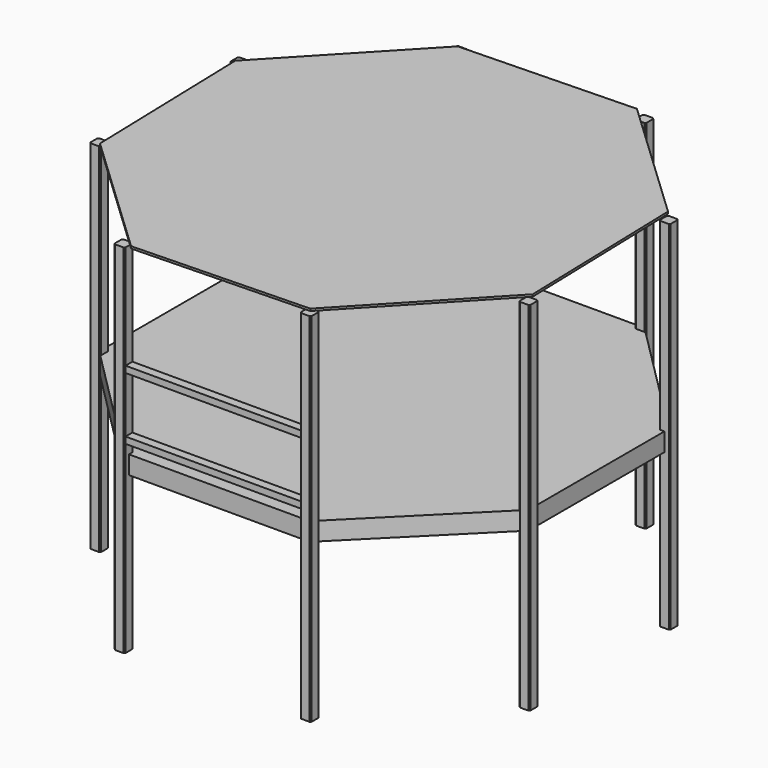
from build123d import *

# Parameters (mm, degrees)
F1_DEPTH      = 2387.6
F1_DEPTH_BACK = 1828.8
F2_DEPTH      = 215.9
F3_W          = 101.6
F3_H          = 76.2
F4_DEPTH      = 2070.1
F6_DEPTH      = 25.4


with BuildPart() as f1:
    # F0 (on Top) → F1 (new body, two sides)
    with BuildSketch(Plane.XY) as f1_sk:
        Polygon((-225.512964, 941.347338), (-238.211047, 928.649255), (-238.211047, 827.049255), (-225.512964, 814.351173), (-174.712964, 814.351173), (-123.912964, 814.351173), (-111.214882, 827.049255), (-111.214882, 928.649255), (-117.563923, 934.998296), (-123.912964, 941.347338), align=None)
        Polygon((-123.912964, -1128.752662), (-174.712964, -1128.752662), (-225.512964, -1128.752662), (-238.211047, -1141.450745), (-238.211047, -1243.050745), (-225.512964, -1255.748827), (-123.912964, -1255.748827), (-117.563923, -1249.399786), (-111.214882, -1243.050745), (-111.214882, -1141.450745), align=None)
        Polygon((1209.587036, -2563.852662), (1203.237994, -2570.201704), (1196.888953, -2576.550745), (1196.888953, -2678.150745), (1209.587036, -2690.848827), (1311.187036, -2690.848827), (1323.885118, -2678.150745), (1323.885118, -2627.350745), (1323.885118, -2576.550745), (1311.187036, -2563.852662), align=None)
        Polygon((3393.985118, -2576.550745), (3393.985118, -2627.350745), (3393.985118, -2678.150745), (3406.6832, -2690.848827), (3508.2832, -2690.848827), (3520.981282, -2678.150745), (3520.981282, -2576.550745), (3514.632241, -2570.201704), (3508.2832, -2563.852662), (3406.6832, -2563.852662), align=None)
        Polygon((4829.085118, -1243.050745), (4835.434159, -1249.399786), (4841.7832, -1255.748827), (4943.3832, -1255.748827), (4956.081282, -1243.050745), (4956.081282, -1141.450745), (4943.3832, -1128.752662), (4892.5832, -1128.752662), (4841.7832, -1128.752662), (4829.085118, -1141.450745), align=None)
        Polygon((4841.7832, 941.347338), (4835.434159, 934.998296), (4829.085118, 928.649255), (4829.085118, 827.049255), (4841.7832, 814.351173), (4892.5832, 814.351173), (4943.3832, 814.351173), (4956.081282, 827.049255), (4956.081282, 928.649255), (4943.3832, 941.347338), align=None)
        Polygon((3393.985118, 2363.749255), (3393.985118, 2312.949255), (3393.985118, 2262.149255), (3406.6832, 2249.451173), (3508.2832, 2249.451173), (3514.632241, 2255.800214), (3520.981282, 2262.149255), (3520.981282, 2363.749255), (3508.2832, 2376.447338), (3406.6832, 2376.447338), align=None)
        Polygon((1196.888953, 2262.149255), (1203.237994, 2255.800214), (1209.587036, 2249.451173), (1311.187036, 2249.451173), (1323.885118, 2262.149255), (1323.885118, 2312.949255), (1323.885118, 2363.749255), (1311.187036, 2376.447338), (1209.587036, 2376.447338), (1196.888953, 2363.749255), align=None)
    extrude(amount=F1_DEPTH)
    extrude(f1_sk.sketch, amount=-F1_DEPTH_BACK)


with BuildPart() as f2:
    # F0 (on Top) → F2 (new body)
    with BuildSketch(Plane.XY):
        Polygon((-123.912964, 814.351173), (-174.712964, 814.351173), (-174.712964, -1128.752662), (-123.912964, -1128.752662), (-111.214882, -1141.450745), (-111.214882, -1243.050745), (-117.563923, -1249.399786), (1203.237994, -2570.201704), (1209.587036, -2563.852662), (1311.187036, -2563.852662), (1323.885118, -2576.550745), (1323.885118, -2627.350745), (3393.985118, -2627.350745), (3393.985118, -2576.550745), (3406.6832, -2563.852662), (3508.2832, -2563.852662), (3514.632241, -2570.201704), (4835.434159, -1249.399786), (4829.085118, -1243.050745), (4829.085118, -1141.450745), (4841.7832, -1128.752662), (4892.5832, -1128.752662), (4892.5832, 814.351173), (4841.7832, 814.351173), (4829.085118, 827.049255), (4829.085118, 928.649255), (4835.434159, 934.998296), (3514.632241, 2255.800214), (3508.2832, 2249.451173), (3406.6832, 2249.451173), (3393.985118, 2262.149255), (3393.985118, 2312.949255), (1323.885118, 2312.949255), (1323.885118, 2262.149255), (1311.187036, 2249.451173), (1209.587036, 2249.451173), (1203.237994, 2255.800214), (-117.563923, 934.998296), (-111.214882, 928.649255), (-111.214882, 827.049255), align=None)
    extrude(amount=F2_DEPTH)


with BuildPart() as f4:
    # F3 (on face) → F4 (new body)
    with BuildSketch(Plane.YZ.offset(1323.885118)):
        with Locations((-2627.350745, 1120.331819)):
            Rectangle(F3_W, F3_H)
        with Locations((-2627.350745, 383.731819)):
            Rectangle(F3_W, F3_H)
    extrude(amount=F4_DEPTH)


with BuildPart() as f6:
    # F5 (on face) → F6 (new body)
    with BuildSketch(Plane.XY.offset(215.9)):
        Polygon((1253.783408, 2311.428086), (-168.109337, 806.923174), (-109.693713, -1262.352454), (1394.811199, -2684.245199), (3464.086827, -2625.829576), (4885.979572, -1121.324663), (4827.563949, 947.950965), (3323.059036, 2369.84371), align=None)
    extrude(amount=F6_DEPTH)


with BuildPart() as f6_1:
    # F7: moved
    add(f6.part.moved(Location((0, 0, 2184.4))))


solid = Compound([f1.part, f2.part, f4.part, f6_1.part])
